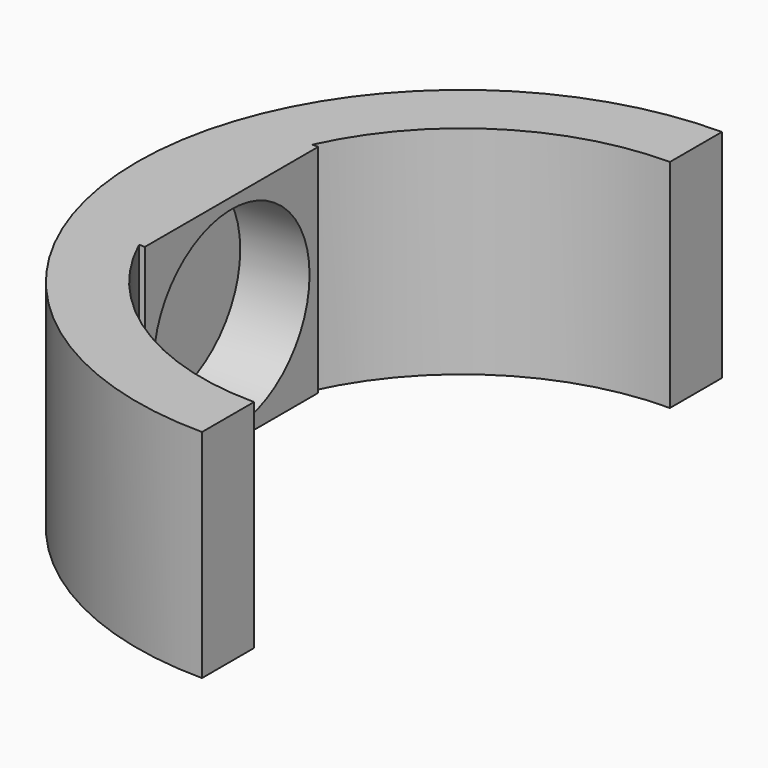
from build123d import *

# Parameters (mm, degrees)
F1_DEPTH = 25
F2_R     = 11.25
F3_DEPTH = 8


with BuildPart() as f1:
    # F0 (on Top) → F1 (new body)
    with BuildSketch(Plane.XY):
        with BuildLine():
            ThreePointArc((0, -30), (-16.201852, -25.248762), (-27.27178, -12.5))
            Line((-27.27178, -12.5), (-26.592, -12.5))
            Line((-26.592, -12.5), (-26.592, 0))
            Line((-26.592, 0), (-26.592, 12.5))
            Line((-26.592, 12.5), (-27.27178, 12.5))
            ThreePointArc((-27.27178, 12.5), (-16.201852, 25.248762), (0, 30))
            Line((0, 30), (0, 37.5))
            ThreePointArc((0, 37.5), (-26.516504, 26.516504), (-37.5, 0))
            ThreePointArc((-37.5, 0), (-26.516504, -26.516504), (0, -37.5))
            Line((0, -37.5), (0, -30))
        make_face()
    extrude(amount=F1_DEPTH)

    # F2 (on face) → F3 (cut)
    with BuildSketch(Plane.YZ.offset(-26.592)):
        with Locations((0, 12.5)):
            Circle(F2_R)
    extrude(amount=-F3_DEPTH, mode=Mode.SUBTRACT)


solid = f1.part
